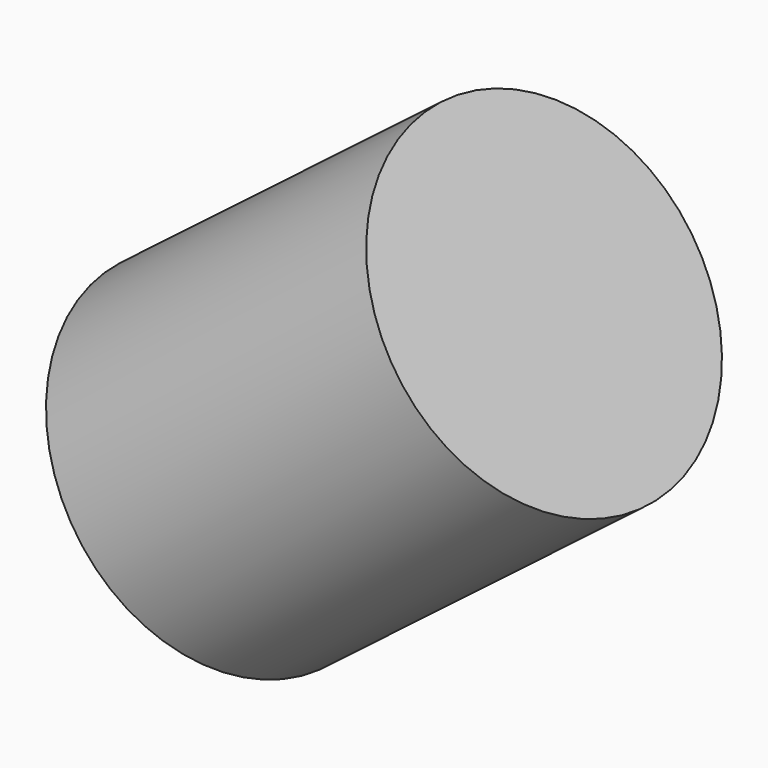
from build123d import *

# Parameters (mm, degrees)
SKETCH001_R = 17.546487
PAD_DEPTH   = 40


with BuildPart() as part:
    # Sketch001 (on DatumPlane) → Pad (new body)
    with BuildSketch(Plane(origin=(49.739166, 0, 38.135883), x_dir=(0, -1, 0), z_dir=(-0.793587, 0, -0.608457))):
        Circle(SKETCH001_R)
    extrude(amount=PAD_DEPTH)


solid = part.part
